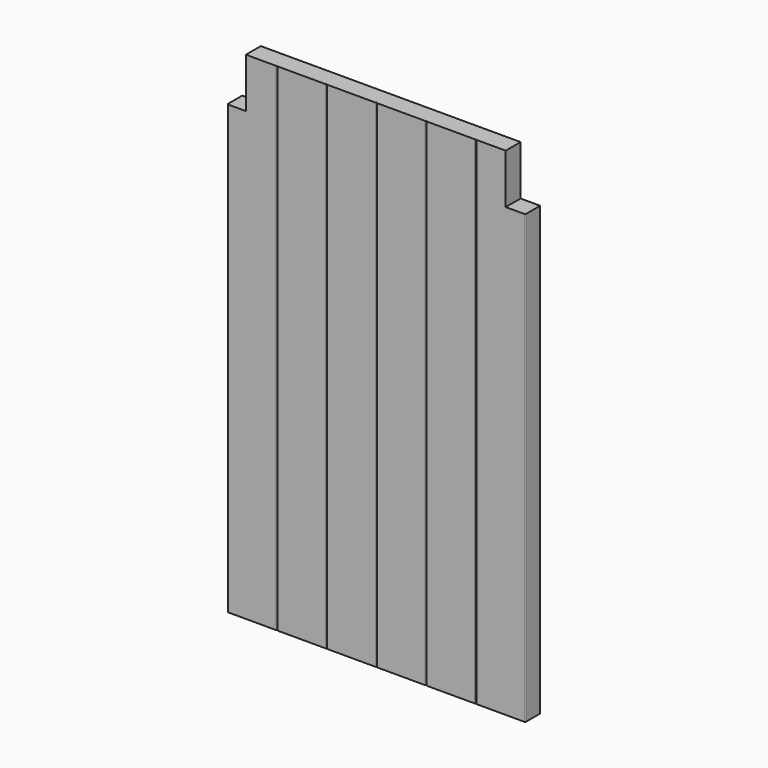
from build123d import *

# Parameters (mm, degrees)
F1_DEPTH = 508
F2_W     = 381
F2_H     = 81.164872
F2_H_2   = 93.253256
F3_DEPTH = 508
F4_W     = 105.076212
F4_H     = 105.076222
F4_W_2   = 127
F4_H_2   = 101.6
F5_DEPTH = 12.7


with BuildPart() as f1:
    # F0 (on Top) → F1 (new body)
    with BuildSketch(Plane.XY):
        with BuildLine():
            Line((458.216, -9.525), (533.4, -9.525))
            Line((533.4, -9.525), (533.4, 9.525))
            Line((533.4, 9.525), (-533.4, 9.525))
            Line((-533.4, 9.525), (-533.4, -9.525))
            Line((-533.4, -9.525), (-509.016, -9.525))
            ThreePointArc((-509.016, -9.525), (-508.29758, -9.22742), (-508, -8.509))
            ThreePointArc((-508, -8.509), (-507.70242, -9.22742), (-506.984, -9.525))
            Line((-506.984, -9.525), (-458.216, -9.525))
            ThreePointArc((-458.216, -9.525), (-457.49758, -9.22742), (-457.2, -8.509))
            ThreePointArc((-457.2, -8.509), (-456.90242, -9.22742), (-456.184, -9.525))
            Line((-456.184, -9.525), (-407.416, -9.525))
            ThreePointArc((-407.416, -9.525), (-406.69758, -9.22742), (-406.4, -8.509))
            ThreePointArc((-406.4, -8.509), (-406.10242, -9.22742), (-405.384, -9.525))
            Line((-405.384, -9.525), (-356.616, -9.525))
            ThreePointArc((-356.616, -9.525), (-355.89758, -9.22742), (-355.6, -8.509))
            ThreePointArc((-355.6, -8.509), (-355.30242, -9.22742), (-354.584, -9.525))
            Line((-354.584, -9.525), (-305.816, -9.525))
            ThreePointArc((-305.816, -9.525), (-305.09758, -9.22742), (-304.8, -8.509))
            ThreePointArc((-304.8, -8.509), (-304.50242, -9.22742), (-303.784, -9.525))
            Line((-303.784, -9.525), (-255.016, -9.525))
            ThreePointArc((-255.016, -9.525), (-254.29758, -9.22742), (-254, -8.509))
            ThreePointArc((-254, -8.509), (-253.70242, -9.22742), (-252.984, -9.525))
            Line((-252.984, -9.525), (-204.216, -9.525))
            ThreePointArc((-204.216, -9.525), (-203.49758, -9.22742), (-203.2, -8.509))
            ThreePointArc((-203.2, -8.509), (-202.90242, -9.22742), (-202.184, -9.525))
            Line((-202.184, -9.525), (-153.416, -9.525))
            ThreePointArc((-153.416, -9.525), (-152.69758, -9.22742), (-152.4, -8.509))
            ThreePointArc((-152.4, -8.509), (-152.10242, -9.22742), (-151.384, -9.525))
            Line((-151.384, -9.525), (-102.616, -9.525))
            ThreePointArc((-102.616, -9.525), (-101.89758, -9.22742), (-101.6, -8.509))
            ThreePointArc((-101.6, -8.509), (-101.30242, -9.22742), (-100.584, -9.525))
            Line((-100.584, -9.525), (-51.816, -9.525))
            ThreePointArc((-51.816, -9.525), (-51.09758, -9.22742), (-50.8, -8.509))
            ThreePointArc((-50.8, -8.509), (-50.50242, -9.22742), (-49.784, -9.525))
            Line((-49.784, -9.525), (-1.016, -9.525))
            ThreePointArc((-1.016, -9.525), (-0.29758, -9.22742), (0, -8.509))
            ThreePointArc((0, -8.509), (0.29758, -9.22742), (1.016, -9.525))
            Line((1.016, -9.525), (49.784, -9.525))
            ThreePointArc((49.784, -9.525), (50.50242, -9.22742), (50.8, -8.509))
            ThreePointArc((50.8, -8.509), (51.09758, -9.22742), (51.816, -9.525))
            Line((51.816, -9.525), (100.584, -9.525))
            ThreePointArc((100.584, -9.525), (101.30242, -9.22742), (101.6, -8.509))
            ThreePointArc((101.6, -8.509), (101.89758, -9.22742), (102.616, -9.525))
            Line((102.616, -9.525), (151.384, -9.525))
            ThreePointArc((151.384, -9.525), (152.10242, -9.22742), (152.4, -8.509))
            ThreePointArc((152.4, -8.509), (152.69758, -9.22742), (153.416, -9.525))
            Line((153.416, -9.525), (202.184, -9.525))
            ThreePointArc((202.184, -9.525), (202.90242, -9.22742), (203.2, -8.509))
            ThreePointArc((203.2, -8.509), (203.49758, -9.22742), (204.216, -9.525))
            Line((204.216, -9.525), (252.984, -9.525))
            ThreePointArc((252.984, -9.525), (253.70242, -9.22742), (254, -8.509))
            ThreePointArc((254, -8.509), (254.29758, -9.22742), (255.016, -9.525))
            Line((255.016, -9.525), (303.784, -9.525))
            ThreePointArc((303.784, -9.525), (304.50242, -9.22742), (304.8, -8.509))
            ThreePointArc((304.8, -8.509), (305.09758, -9.22742), (305.816, -9.525))
            Line((305.816, -9.525), (354.584, -9.525))
            ThreePointArc((354.584, -9.525), (355.30242, -9.22742), (355.6, -8.509))
            ThreePointArc((355.6, -8.509), (355.89758, -9.22742), (356.616, -9.525))
            Line((356.616, -9.525), (405.384, -9.525))
            ThreePointArc((405.384, -9.525), (406.10242, -9.22742), (406.4, -8.509))
            ThreePointArc((406.4, -8.509), (406.69758, -9.22742), (407.416, -9.525))
            Line((407.416, -9.525), (456.184, -9.525))
            ThreePointArc((456.184, -9.525), (456.90242, -9.22742), (457.2, -8.509))
            ThreePointArc((457.2, -8.509), (457.49758, -9.22742), (458.216, -9.525))
        make_face()
        with BuildLine():
            ThreePointArc((-508, -8.509), (-508.29758, -9.22742), (-509.016, -9.525))
            Line((-509.016, -9.525), (-506.984, -9.525))
            ThreePointArc((-506.984, -9.525), (-507.70242, -9.22742), (-508, -8.509))
        make_face()
    extrude(amount=F1_DEPTH)

    # F2 (on Top) → F3 (cut)
    with BuildSketch(Plane.XY):
        with Locations((-342.9, -9.482393)):
            Rectangle(F2_W, F2_H)
        with Locations((342.9, -12.072761)):
            Rectangle(F2_W, F2_H_2)
    extrude(amount=F3_DEPTH, mode=Mode.SUBTRACT)

    # F4 (on Front) → F5 (cut, symmetric)
    with BuildSketch(Plane.XZ):
        with Locations((-185.888106, 509.738111)):
            Rectangle(F4_W, F4_H)
        with Locations((195.834, 508)):
            Rectangle(F4_W_2, F4_H_2)
    extrude(amount=F5_DEPTH, both=True, mode=Mode.SUBTRACT)


solid = f1.part
